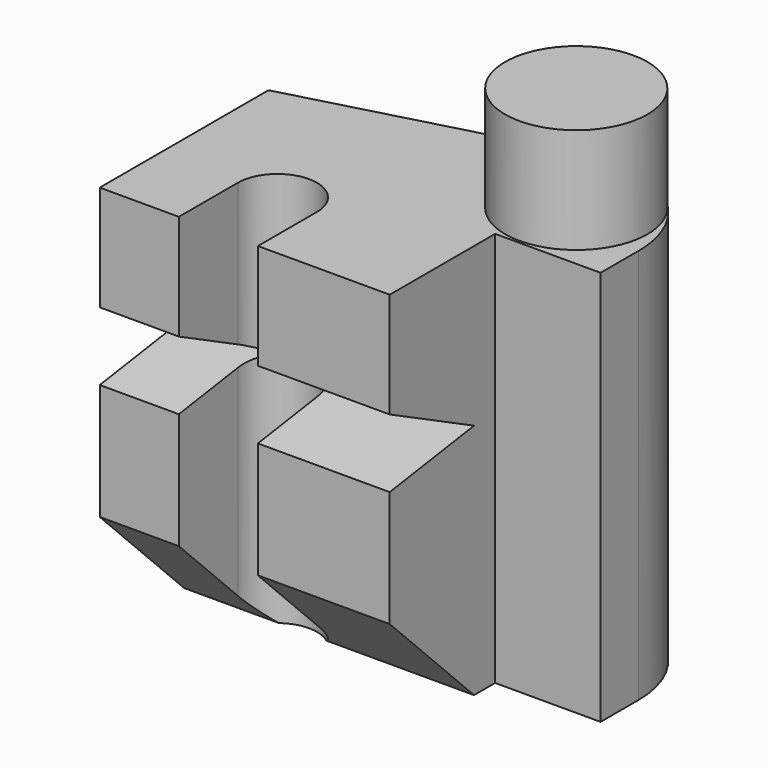
from build123d import *

# Parameters (mm, degrees)
F1_DEPTH = 75
F3_DEPTH = 100
F5_DEPTH = 100
F6_R     = 13.5
F7_DEPTH = 20


with BuildPart() as f1:
    # F0 (on Top) → F1 (new body)
    with BuildSketch(Plane.XY):
        with BuildLine():
            Line((0, 40), (0, 0))
            Line((0, 0), (15, 0))
            Line((15, 0), (15, 14))
            ThreePointArc((15, 14), (22.5, 21.5), (30, 14))
            Line((30, 14), (30, 0))
            Line((30, 0), (55, 0))
            Line((55, 0), (55, 25))
            Line((55, 25), (75, 25))
            Line((75, 25), (75, 34.031682))
            ThreePointArc((75, 34.031682), (67.175229, 49.898749), (49.823619, 53.350199))
            Line((49.823619, 53.350199), (0, 40))
        make_face()
    extrude(amount=F1_DEPTH)

    # F2 (on face) → F3 (cut, symmetric)
    with BuildSketch(Plane.YZ.offset(55)):
        Polygon((0, 20), (0, 0), (20, 0), align=None)
    extrude(amount=F3_DEPTH, both=True, mode=Mode.SUBTRACT)

    # F4 (on face) → F5 (cut)
    with BuildSketch(Plane.YZ.offset(55)):
        Polygon((0, 42.03419), (20, 45), (0, 55), align=None)
    extrude(amount=-F5_DEPTH, mode=Mode.SUBTRACT)

    # F6 (on face) → F7 (join)
    with BuildSketch(Plane.XY.offset(75)):
        with Locations((59.191159, 39)):
            Circle(F6_R)
    extrude(amount=F7_DEPTH)


solid = f1.part
